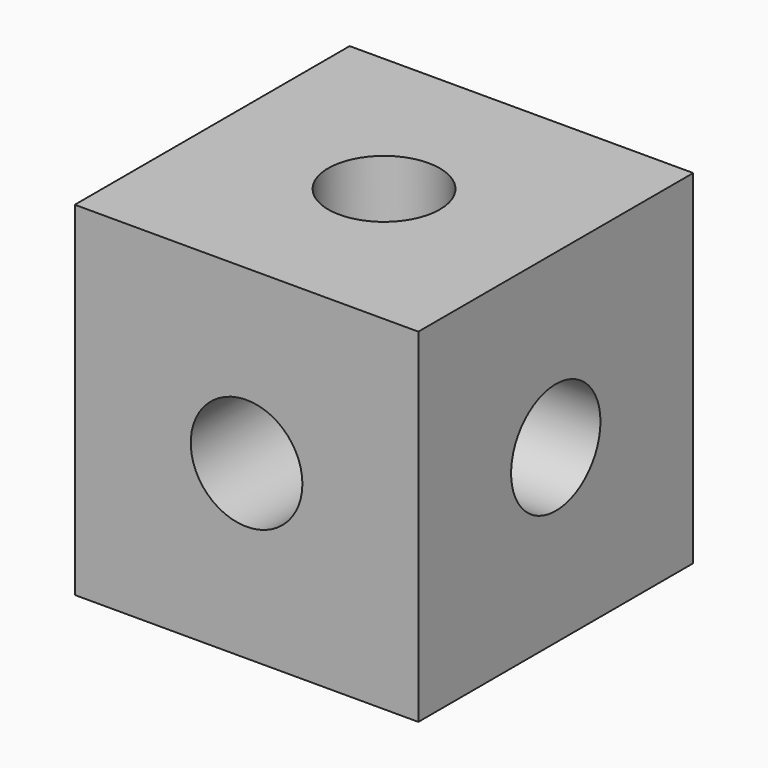
from build123d import *

# Parameters (mm, degrees)
F0_W     = 20
F0_H     = 20
F1_DEPTH = 20
F2_R     = 3.25
F3_DEPTH = 15
F4_R     = 3.25
F5_DEPTH = 15
F6_R     = 3.25
F7_DEPTH = 15


with BuildPart() as f1:
    # F0 (on Top) → F1 (new body)
    with BuildSketch(Plane.XY):
        Rectangle(F0_W, F0_H)
    extrude(amount=F1_DEPTH)

    # F2 (on face) → F3 (cut)
    with BuildSketch(Plane.XY.offset(20)):
        Circle(F2_R)
    extrude(amount=-F3_DEPTH, mode=Mode.SUBTRACT)

    # F4 (on face) → F5 (cut)
    with BuildSketch(Plane.XZ.offset(10)):
        with Locations((0, 10)):
            Circle(F4_R)
    extrude(amount=-F5_DEPTH, mode=Mode.SUBTRACT)

    # F6 (on face) → F7 (cut)
    with BuildSketch(Plane.YZ.offset(10)):
        with Locations((0, 10)):
            Circle(F6_R)
    extrude(amount=-F7_DEPTH, mode=Mode.SUBTRACT)


solid = f1.part
